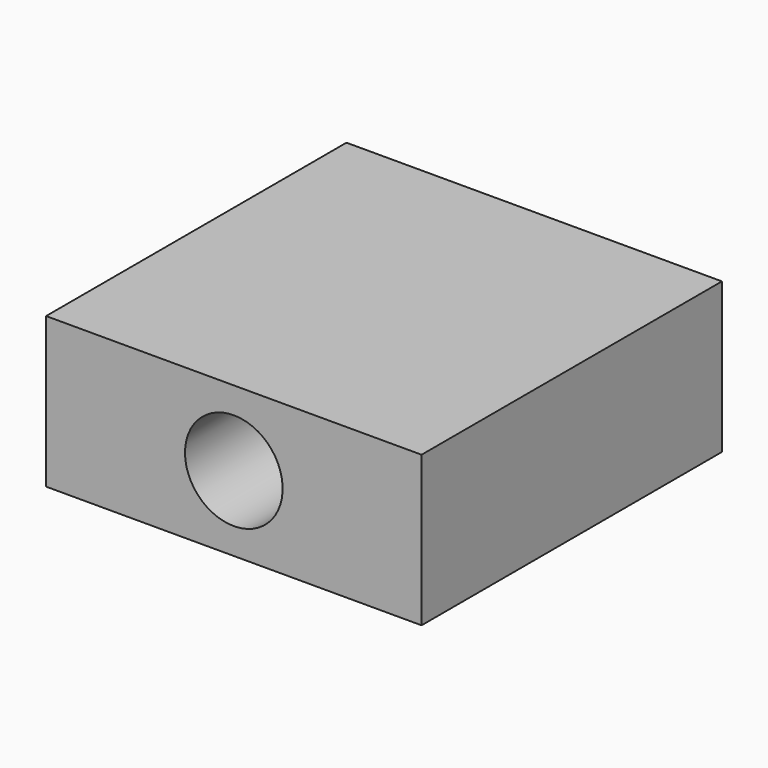
from build123d import *

# Parameters (mm, degrees)
SKETCH_W     = 25
SKETCH_H     = 25
PAD_DEPTH    = 10
SKETCH001_R  = 3.25
POCKET_DEPTH = 25.001


with BuildPart() as part:
    # Sketch (on XY_Plane of Origin) → Pad (new body)
    with BuildSketch(Plane.XY):
        Rectangle(SKETCH_W, SKETCH_H)
    extrude(amount=PAD_DEPTH)

    # Sketch001 (on Face4 of Pad) → Pocket (cut, through all)
    with BuildSketch(Plane(origin=(0, 12.5, 0), x_dir=(-1, 0, 0), z_dir=(0, 1, 0))):
        with Locations((0, 5)):
            Circle(SKETCH001_R)
    extrude(amount=-POCKET_DEPTH, mode=Mode.SUBTRACT)


solid = part.part
